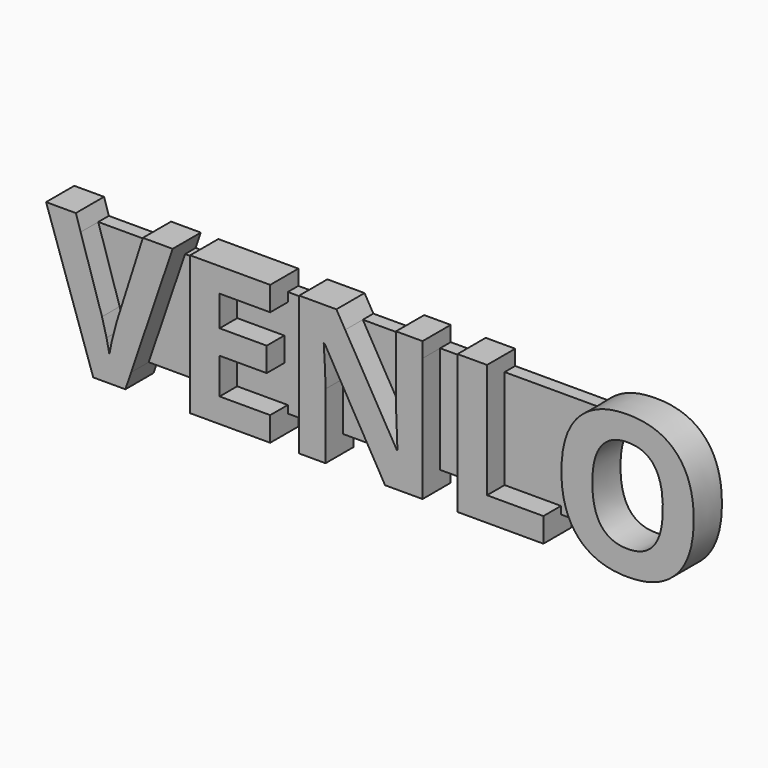
from build123d import *

# Parameters (mm, degrees)
F1_DEPTH = 1.5
F0_W     = 3.9748375501
F0_H     = 12.1611338109
F0_W_2   = 9.0937370386
F0_H_2   = 1.7273324568
F0_H_3   = 1.9037361379
F0_W_3   = 2.9932254943
F0_W_4   = 3.0139637771
F0_W_5   = 9.7539057099
F0_W_6   = 3.3492326835
F2_DEPTH = 4


with BuildPart() as f1:
    # F0 (on Front) → F1 (new body)
    with BuildSketch(Plane.XZ):
        with BuildLine():
            Line((-14.0739162962, -1.7665462536), (-11.6336663347, 5.9040198103))
            Line((-11.6336663347, 5.9040198103), (-18.1522106352, 5.9040198103))
            Line((-18.1522106352, 5.9040198103), (-15.7260661648, -1.7665462536))
            add(Edge.make_bspline(
                [(-15.7260661648, -1.7665462536), (-15.4806631509, -2.5995339489), (-15.214521854, -3.7055757019)],
                knots=[0, 0, 0, 1, 1, 1], degree=2))
            add(Edge.make_bspline(
                [(-15.214521854, -3.7055757019), (-14.9483805572, -4.811617455), (-14.8861657086, -5.2436650148)],
                knots=[0, 0, 0, 1, 1, 1], degree=2))
            add(Edge.make_bspline(
                [(-14.8861657086, -5.2436650148), (-14.7651923918, -4.2516838175), (-14.0739162962, -1.7665462536)],
                knots=[0, 0, 0, 1, 1, 1], degree=2))
        make_face()
    extrude(amount=F1_DEPTH)



with BuildPart() as f1b:
    # F0 (on Front) → F1, piece 2 (new body)
    with BuildSketch(Plane.XZ):
        Polygon((-5.7163882995, -6.2571140006), (-5.7163882995, 5.9040198103), (-8.2909262046, 5.9040198103), (-12.4244873358, -6.2571140006), align=None)
    extrude(amount=F1_DEPTH)


with BuildPart() as f1c:
    # F0 (on Front) → F1, piece 3 (new body)
    with BuildSketch(Plane.XZ):
        Polygon((6.671279335, -6.2571140006), (6.671279335, 5.9040198103), (3.3773487391, 5.9040198103), (3.3773487391, 4.8869861673), (-2.3671556159, 4.8869861673), (-2.3671556159, 1.4202365475), (2.9798649841, 1.4202365475), (2.9798649841, -1.3241295523), (-2.3671556159, -1.3241295523), (-2.3671556159, -5.3957457559), (3.3773487391, -5.3957457559), (3.3773487391, -6.2571140006), align=None)
    extrude(amount=F1_DEPTH)


with BuildPart() as f1d:
    # F0 (on Front) → F1, piece 4 (new body)
    with BuildSketch(Plane.XZ):
        with BuildLine():
            Line((9.6645048292, -6.2571140006), (15.3300960859, -6.2571140006))
            Line((15.3300960859, -6.2571140006), (9.5539006539, 3.7844007947))
            Line((9.5539006539, 3.7844007947), (9.4571220005, 3.7844007947))
            add(Edge.make_bspline(
                [(9.4571220005, 3.7844007947), (9.6645048292, 0.621812657), (9.6645048292, -0.7296321101)],
                knots=[0, 0, 0, 1, 1, 1], degree=2))
            Line((9.6645048292, -0.7296321101), (9.6645048292, -6.2571140006))
        make_face()
    extrude(amount=F1_DEPTH)


with BuildPart() as f1e:
    # F0 (on Front) → F1, piece 5 (new body)
    with BuildSketch(Plane.XZ):
        with BuildLine():
            Line((17.6660256366, 0.1552012924), (17.6660256366, 5.9040198103))
            Line((17.6660256366, 5.9040198103), (11.8964454772, 5.9040198103))
            Line((11.8964454772, 5.9040198103), (17.7524351486, -4.1963817299))
            Line((17.7524351486, -4.1963817299), (17.8284755191, -4.1963817299))
            add(Edge.make_bspline(
                [(17.8284755191, -4.1963817299), (17.6660256366, -1.1167467236), (17.6660256366, 0.1552012924)],
                knots=[0, 0, 0, 1, 1, 1], degree=2))
        make_face()
    extrude(amount=F1_DEPTH)


with BuildPart() as f1f:
    # F0 (on Front) → F1, piece 6 (new body)
    with BuildSketch(Plane.XZ):
        with Locations((22.6674081888, -0.1765470952)):
            Rectangle(F0_W, F0_H)
    extrude(amount=F1_DEPTH)


with BuildPart() as f1g:
    # F0 (on Front) → F1, piece 7 (new body)
    with BuildSketch(Plane.XZ):
        with BuildLine():
            add(Edge.make_bspline(
                [(38.4008521263, 5.8011988038), (38.4496687154, 5.8532611767), (38.4995452021, 5.9040198103)],
                knots=[0, 0, 0, 0.0250418715, 0.0250418715, 0.0250418715], degree=2))
            Line((38.4995452021, 5.9040198103), (28.0040596474, 5.9040198103))
            Line((28.0040596474, 5.9040198103), (28.0040596474, -5.3957457559))
            Line((28.0040596474, -5.3957457559), (34.4087326738, -5.3957457559))
            Line((34.4087326738, -5.3957457559), (34.4087326738, -6.2571140006))
            Line((34.4087326738, -6.2571140006), (38.3820313969, -6.2571140006))
            add(Edge.make_bspline(
                [(38.3820313969, -6.2571140006), (36.4514535366, -4.1514198749), (36.4514535366, -0.2215441798)],
                knots=[0.0035130271, 0.0035130271, 0.0035130271, 1, 1, 1], degree=2))
            add(Edge.make_bspline(
                [(36.4514535366, -0.2215441798), (36.4514535366, 3.7221859461), (38.4008521263, 5.8011988038)],
                knots=[0, 0, 0, 1, 1, 1], degree=2))
        make_face()
    extrude(amount=F1_DEPTH)


with BuildPart() as f1_1:
    add(f1.part)

    add(f1b.part)  # F2 merges F1b

    add(f1c.part)  # F2 merges F1c

    add(f1d.part)  # F2 merges F1d

    add(f1e.part)  # F2 merges F1e

    add(f1f.part)  # F2 merges F1f

    add(f1g.part)  # F2 merges F1g
    # F0 (on Front) → F2 (join)
    with BuildSketch(Plane.XZ):
        Polygon((-13.0715659574, -8.1608501386), (-12.4244873358, -6.2571140006), (-17.3602644354, -6.2571140006), (-21.4139763266, 5.9040198103), (-18.1522106352, 5.9040198103), (-18.6985533762, 7.6313522671), (-22.078893484, 7.6313522671), (-16.7215037426, -8.1608501386), align=None)
        with BuildLine():
            Line((-12.4244873358, -6.2571140006), (-8.2909262046, 5.9040198103))
            Line((-8.2909262046, 5.9040198103), (-11.6336663347, 5.9040198103))
            Line((-11.6336663347, 5.9040198103), (-14.0739162962, -1.7665462536))
            add(Edge.make_bspline(
                [(-14.8861657086, -5.2436650148), (-14.7651923918, -4.2516838175), (-14.0739162962, -1.7665462536)],
                knots=[0, 0, 0, 1, 1, 1], degree=2))
            add(Edge.make_bspline(
                [(-15.214521854, -3.7055757019), (-14.9483805572, -4.811617455), (-14.8861657086, -5.2436650148)],
                knots=[0, 0, 0, 1, 1, 1], degree=2))
            add(Edge.make_bspline(
                [(-15.7260661648, -1.7665462536), (-15.4806631509, -2.5995339489), (-15.214521854, -3.7055757019)],
                knots=[0, 0, 0, 1, 1, 1], degree=2))
            Line((-15.7260661648, -1.7665462536), (-18.1522106352, 5.9040198103))
            Line((-18.1522106352, 5.9040198103), (-21.4139763266, 5.9040198103))
            Line((-21.4139763266, 5.9040198103), (-17.3602644354, -6.2571140006))
            Line((-17.3602644354, -6.2571140006), (-12.4244873358, -6.2571140006))
        make_face()
        Polygon((-11.6336663347, 5.9040198103), (-8.2909262046, 5.9040198103), (-7.7038070745, 7.6313522671), (-11.0841471824, 7.6313522671), align=None)
        with Locations((-1.1695197802, 6.7676860387)):
            Rectangle(F0_W_2, F0_H_2)
        Polygon((3.3773487391, 4.8869861673), (3.3773487391, 5.9040198103), (-5.7163882995, 5.9040198103), (-5.7163882995, -6.2571140006), (3.3773487391, -6.2571140006), (3.3773487391, -5.3957457559), (-2.3671556159, -5.3957457559), (-2.3671556159, -1.3241295523), (2.9798649841, -1.3241295523), (2.9798649841, 1.4202365475), (-2.3671556159, 1.4202365475), (-2.3671556159, 4.8869861673), align=None)
        with Locations((-1.1695197802, -7.2089820696)):
            Rectangle(F0_W_2, F0_H_3)
        with Locations((8.1678920821, -7.2089820696)):
            Rectangle(F0_W_3, F0_H_3)
        with BuildLine():
            Line((20.6799894138, -6.2571140006), (20.6799894138, 5.9040198103))
            Line((20.6799894138, 5.9040198103), (17.6660256366, 5.9040198103))
            Line((17.6660256366, 5.9040198103), (17.6660256366, 0.1552012924))
            add(Edge.make_bspline(
                [(17.8284755191, -4.1963817299), (17.6660256366, -1.1167467236), (17.6660256366, 0.1552012924)],
                knots=[0, 0, 0, 1, 1, 1], degree=2))
            Line((17.8284755191, -4.1963817299), (17.7524351486, -4.1963817299))
            Line((17.7524351486, -4.1963817299), (11.8964454772, 5.9040198103))
            Line((11.8964454772, 5.9040198103), (6.671279335, 5.9040198103))
            Line((6.671279335, 5.9040198103), (6.671279335, -6.2571140006))
            Line((6.671279335, -6.2571140006), (9.6645048292, -6.2571140006))
            Line((9.6645048292, -6.2571140006), (9.6645048292, -0.7296321101))
            add(Edge.make_bspline(
                [(9.4571220005, 3.7844007947), (9.6645048292, 0.621812657), (9.6645048292, -0.7296321101)],
                knots=[0, 0, 0, 1, 1, 1], degree=2))
            Line((9.4571220005, 3.7844007947), (9.5539006539, 3.7844007947))
            Line((9.5539006539, 3.7844007947), (15.3300960859, -6.2571140006))
            Line((15.3300960859, -6.2571140006), (20.6799894138, -6.2571140006))
        make_face()
        Polygon((6.671279335, 5.9040198103), (11.8964454772, 5.9040198103), (10.8949762795, 7.6313522671), (6.671279335, 7.6313522671), align=None)
        with Locations((19.1730075252, 6.7676860387)):
            Rectangle(F0_W_4, F0_H_2)
        Polygon((20.6799894138, -8.1608501386), (20.6799894138, -6.2571140006), (15.3300960859, -6.2571140006), (16.4251850449, -8.1608501386), align=None)
        with Locations((29.5317798189, -7.2089820696)):
            Rectangle(F0_W_5, F0_H_3)
        Polygon((28.0040596474, -5.3957457559), (28.0040596474, 5.9040198103), (24.6548269639, 5.9040198103), (24.6548269639, -6.2571140006), (34.4087326738, -6.2571140006), (34.4087326738, -5.3957457559), align=None)
        with Locations((26.3294433057, 6.7676860387)):
            Rectangle(F0_W_6, F0_H_2)
        with BuildLine():
            Line((38.4995452021, 5.9040198103), (40.0562398136, 5.9040198103))
            Line((40.0562398136, 5.9040198103), (38.9265157282, 0))
            Line((38.9265157282, 0), (40.5214205384, -6.2571140006))
            Line((40.5214205384, -6.2571140006), (38.3820313969, -6.2571140006))
            add(Edge.make_bspline(
                [(38.3956675556, -6.2719382071), (38.3888374792, -6.2645374398), (38.3820313969, -6.2571140006)],
                knots=[0, 0, 0, 0.0035130271, 0.0035130271, 0.0035130271], degree=2))
            add(Edge.make_bspline(
                [(43.969081077, -8.3786021087), (40.3398815747, -8.3786021087), (38.3956675556, -6.2719382071)],
                knots=[0, 0, 0, 1, 1, 1], degree=2))
            add(Edge.make_bspline(
                [(49.5424945984, -6.2719382071), (47.5982805793, -8.3786021087), (43.969081077, -8.3786021087)],
                knots=[0, 0, 0, 1, 1, 1], degree=2))
            add(Edge.make_bspline(
                [(51.4867086174, -0.2422824626), (51.4867086174, -4.1652743056), (49.5424945984, -6.2719382071)],
                knots=[0, 0, 0, 1, 1, 1], degree=2))
            add(Edge.make_bspline(
                [(49.5580483105, 5.7839169014), (51.4867086174, 3.6876221413), (51.4867086174, -0.2422824626)],
                knots=[0, 0, 0, 1, 1, 1], degree=2))
            add(Edge.make_bspline(
                [(43.9898193599, 7.8802116615), (47.6293880036, 7.8802116615), (49.5580483105, 5.7839169014)],
                knots=[0, 0, 0, 1, 1, 1], degree=2))
            add(Edge.make_bspline(
                [(38.4995452021, 5.9040198103), (40.4413923265, 7.8802116615), (43.9898193599, 7.8802116615)],
                knots=[0.0250418715, 0.0250418715, 0.0250418715, 1, 1, 1], degree=2))
        make_face()
        with BuildLine():
            add(Edge.make_bspline(
                [(39.9631361026, -0.2422824626), (39.9631361026, -2.889869909), (40.9672146315, -4.2292173444)],
                knots=[0, 0, 0, 1, 1, 1], degree=2))
            add(Edge.make_bspline(
                [(40.977583773, 3.7463806094), (39.9631361026, 2.4018486033), (39.9631361026, -0.2422824626)],
                knots=[0, 0, 0, 1, 1, 1], degree=2))
            add(Edge.make_bspline(
                [(43.9898193599, 5.0909126155), (41.9920314434, 5.0909126155), (40.977583773, 3.7463806094)],
                knots=[0, 0, 0, 1, 1, 1], degree=2))
            add(Edge.make_bspline(
                [(47.9750260514, -0.2422824626), (47.9750260514, 5.0909126155), (43.9898193599, 5.0909126155)],
                knots=[0, 0, 0, 1, 1, 1], degree=2))
            add(Edge.make_bspline(
                [(43.969081077, -5.5685647798), (47.9750260514, -5.5685647798), (47.9750260514, -0.2422824626)],
                knots=[0, 0, 0, 1, 1, 1], degree=2))
            add(Edge.make_bspline(
                [(40.9672146315, -4.2292173444), (41.9712931605, -5.5685647798), (43.969081077, -5.5685647798)],
                knots=[0, 0, 0, 1, 1, 1], degree=2))
        make_face(mode=Mode.SUBTRACT)
        with BuildLine():
            Line((38.9265157282, 0), (40.0562398136, 5.9040198103))
            Line((40.0562398136, 5.9040198103), (38.4995452021, 5.9040198103))
            add(Edge.make_bspline(
                [(38.4008521263, 5.8011988038), (38.4496687154, 5.8532611767), (38.4995452021, 5.9040198103)],
                knots=[0, 0, 0, 0.0250418715, 0.0250418715, 0.0250418715], degree=2))
            add(Edge.make_bspline(
                [(36.4514535366, -0.2215441798), (36.4514535366, 3.7221859461), (38.4008521263, 5.8011988038)],
                knots=[0, 0, 0, 1, 1, 1], degree=2))
            add(Edge.make_bspline(
                [(38.3820313969, -6.2571140006), (36.4514535366, -4.1514198749), (36.4514535366, -0.2215441798)],
                knots=[0.0035130271, 0.0035130271, 0.0035130271, 1, 1, 1], degree=2))
            Line((38.3820313969, -6.2571140006), (40.5214205384, -6.2571140006))
            Line((40.5214205384, -6.2571140006), (38.9265157282, 0))
        make_face()
    extrude(amount=F2_DEPTH)


solid = f1_1.part
